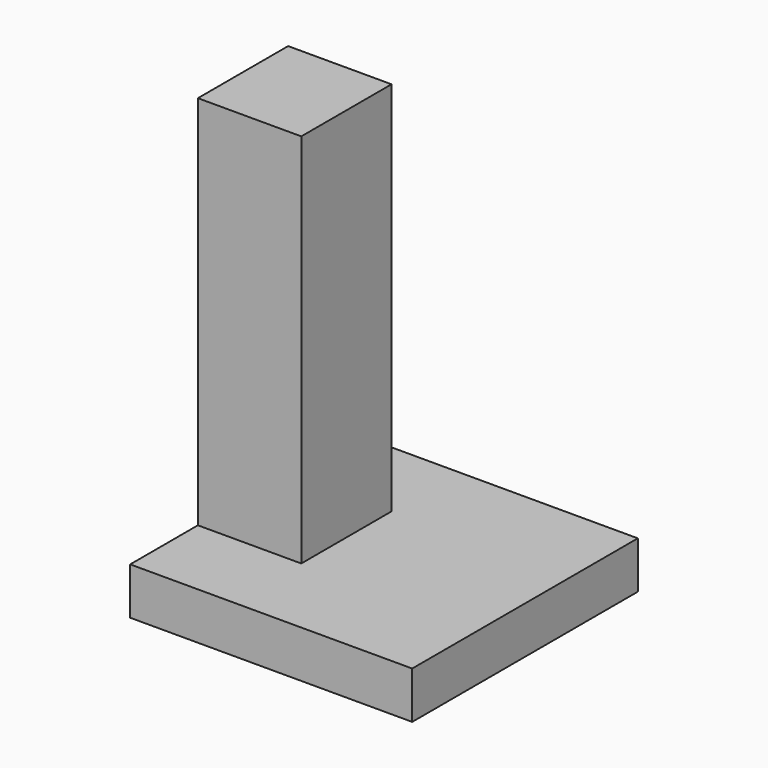
from build123d import *

# Parameters (mm, degrees)
EXTRUDE002_DEPTH = 4
EXTRUDE003_DEPTH = 4
SKETCH_W         = 30
SKETCH_H         = 30
EXTRUDE_DEPTH    = 5
SKETCH001_W      = 11
SKETCH001_H      = 12
EXTRUDE001_DEPTH = 45


with BuildPart() as extrude002:
    # Sketch002 → Extrude002 (new body)
    with BuildSketch(Plane.XY):
        with BuildLine():
            ThreePointArc((0, 13.999913), (-3, 10.999913), (0, 7.999913))
            Line((0, 7.999913), (0, 8.999913))
            ThreePointArc((0, 12.999913), (-2, 10.999913), (0, 8.999913))
            Line((0, 13.999913), (0, 12.999913))
        make_face()
    extrude(amount=EXTRUDE002_DEPTH)


with BuildPart() as extrude003:
    # Sketch002 → Extrude003 (new body)
    with BuildSketch(Plane.XY):
        with BuildLine():
            ThreePointArc((0, 13.999913), (-3, 10.999913), (0, 7.999913))
            Line((0, 7.999913), (0, 8.999913))
            ThreePointArc((0, 12.999913), (-2, 10.999913), (0, 8.999913))
            Line((0, 13.999913), (0, 12.999913))
        make_face()
    extrude(amount=EXTRUDE003_DEPTH)


with BuildPart() as extrude003_1:
    # Extrude003 placement: moved
    add(extrude003.part.moved(Location((0, 0, 36))))


with BuildPart() as fusion:
    # Sketch → Extrude (new body)
    with BuildSketch(Plane.XY):
        with Locations((15, 11)):
            Rectangle(SKETCH_W, SKETCH_H)
    extrude(amount=EXTRUDE_DEPTH)

    # Fusion: union Extrude003
    add(extrude003_1.part)


with BuildPart() as fusion001:
    # Sketch001 → Extrude001 (new body)
    with BuildSketch(Plane.XY):
        with Locations((5.5, 11)):
            Rectangle(SKETCH001_W, SKETCH001_H)
    extrude(amount=EXTRUDE001_DEPTH)

    # Fusion001: union Fusion
    add(fusion.part)


solid = Compound([extrude002.part, fusion001.part])
